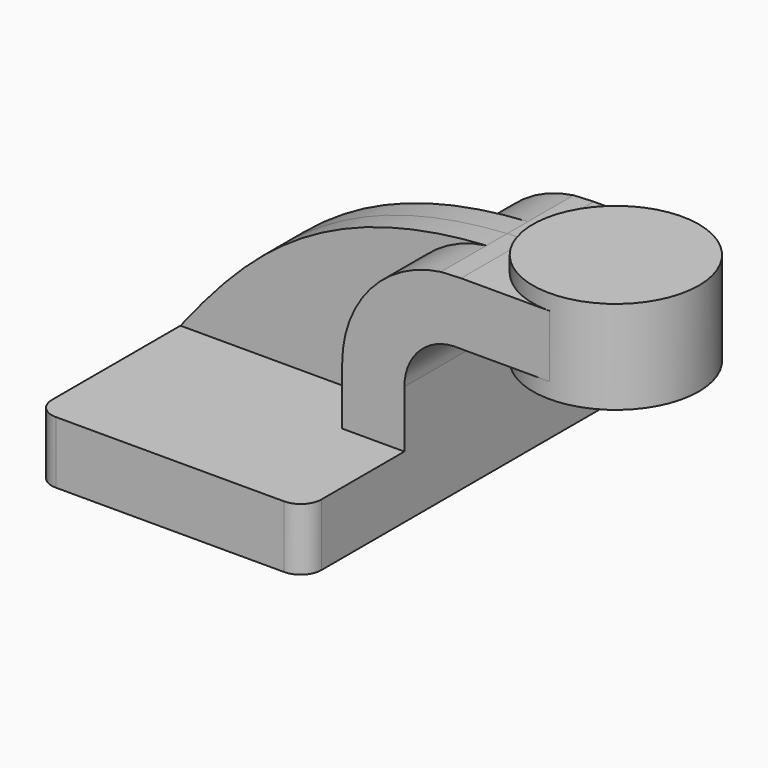
from build123d import *

# Parameters (mm, degrees)
F1_DEPTH = 63.5
F0_W     = 25.4
F0_H     = 19.05
F2_DEPTH = 25.4
F3_DEPTH = 7.9375
F5_R     = 6.35


with BuildPart() as f1:
    # F0 (on Front) → F1 (new body, symmetric)
    with BuildSketch(Plane.XZ):
        Polygon((-41.275, -9.525), (41.275, -9.525), (41.275, 9.525), (22.225, 9.525), (-41.275, 9.525), align=None)
    extrude(amount=F1_DEPTH, both=True)

    # F0 (on Front) → F2 (join, symmetric)
    with BuildSketch(Plane.XZ):
        with BuildLine():
            Line((22.225, 9.525), (41.275, 9.525))
            Line((41.275, 9.525), (41.275, 27.0002))
            ThreePointArc((41.275, 27.0002), (46.2850237242, 38.5746509817), (58.1528476254, 42.8434926388))
            Line((58.1528476254, 42.8434926388), (60.325, 42.8434926388))
            Line((60.325, 42.8434926388), (60.325, 61.8934926388))
            Line((60.325, 61.8934926388), (58.6378688852, 61.8934926388))
            add(Edge.make_bspline(
                [(52.4534551794, 61.6079750187), (54.4697086155, 61.7343456613), (56.5306203793, 61.8298446607), (58.6378688852, 61.8934926388)],
                knots=[108.4678965171, 108.4678965171, 108.4678965171, 108.4678965171, 112.8053207528, 112.8053207528, 112.8053207528, 112.8053207528], degree=3))
            ThreePointArc((52.4534551794, 61.6079750187), (30.8461746807, 49.9754997493), (22.225, 27.0002))
            Line((22.225, 27.0002), (22.225, 9.525))
        make_face()
        with Locations((73.025, 52.3684926388)):
            Rectangle(F0_W, F0_H)
        with Locations((73.025, 52.3684926388)):
            Rectangle(F0_W, F0_H)
    extrude(amount=F2_DEPTH, both=True)

    # F0 (on Front) → F3 (join, symmetric)
    with BuildSketch(Plane.XZ):
        with BuildLine():
            add(Edge.make_bspline(
                [(-41.275, 9.525), (-20.4611566288, 35.9812911756), (2.0321089665, 58.447768169), (52.4534551794, 61.6079750187)],
                knots=[0, 0, 0, 0, 108.4678965171, 108.4678965171, 108.4678965171, 108.4678965171], degree=3))
            Line((-41.275, 9.525), (22.225, 9.525))
            Line((22.225, 9.525), (22.225, 27.0002))
            ThreePointArc((22.225, 27.0002), (30.8461746807, 49.9754997493), (52.4534551794, 61.6079750187))
        make_face()
    extrude(amount=F3_DEPTH, both=True)

    # F5
    f5_edges = [f1.edges().sort_by_distance(p)[0] for p in [
        (41.275, 63.5, 0),
        (41.275, -63.5, 0),
        (-41.275, -63.5, 0),
        (-41.275, 63.5, 0),
    ]]
    fillet(f5_edges, radius=F5_R)


with BuildPart() as f4:
    # F0 (on Front) → F4 (revolve)
    with BuildSketch(Plane.XZ):
        Polygon((85.725, 61.8934926388), (85.725, 42.8434926388), (85.725, 38.1), (111.125, 38.1), (111.125, 66.675), (85.725, 66.675), align=None)
    revolve(axis=Axis((85.725, 0, 52.3684926388), (0, 0, 1)))


solid = Compound([f1.part, f4.part])
